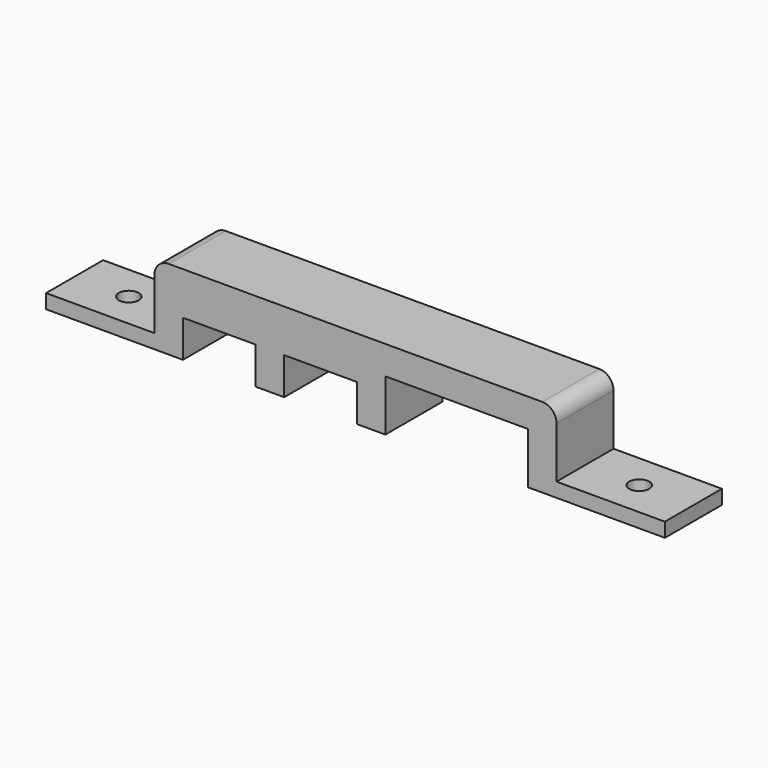
from build123d import *

# Parameters (mm, degrees)
F1_DEPTH = 6.35
F2_R     = 0.889
F3_DEPTH = 1.27


with BuildPart() as f1:
    # F0 (on Front) → F1 (new body)
    with BuildSketch(Plane.XZ):
        with BuildLine():
            Line((15.279732, 4.572), (15.279732, 0))
            Line((15.279732, 0), (17.819732, 0))
            Line((17.819732, 0), (27.471732, 0))
            Line((27.471732, 0), (27.471732, 1.27))
            Line((27.471732, 1.27), (17.819732, 1.27))
            Line((17.819732, 1.27), (17.819732, 5.842))
            ThreePointArc((17.819732, 5.842), (17.447758, 6.740026), (16.549732, 7.112))
            Line((16.549732, 7.112), (-16.724268, 7.112))
            ThreePointArc((-16.724268, 7.112), (-17.622294, 6.740026), (-17.994268, 5.842))
            Line((-17.994268, 5.842), (-17.994268, 1.27))
            Line((-17.994268, 1.27), (-27.646268, 1.27))
            Line((-27.646268, 1.27), (-27.646268, 0))
            Line((-27.646268, 0), (-17.994268, 0))
            Line((-17.994268, 0), (-15.454268, 0))
            Line((-15.454268, 0), (-15.454268, 3.302))
            Line((-15.454268, 3.302), (-8.977268, 3.302))
            Line((-8.977268, 3.302), (-8.977268, 0))
            Line((-8.977268, 0), (-6.437268, 0))
            Line((-6.437268, 0), (-6.437268, 3.302))
            Line((-6.437268, 3.302), (0.039732, 3.302))
            Line((0.039732, 3.302), (0.039732, 0))
            Line((0.039732, 0), (2.579732, 0))
            Line((2.579732, 0), (2.579732, 4.572))
            Line((2.579732, 4.572), (15.279732, 4.572))
        make_face()
    extrude(amount=F1_DEPTH)

    # F2 (on face) → F3 (cut, through all)
    with BuildSketch(Plane.XY.offset(1.27)):
        with Locations((-22.820268, -3.175)):
            Circle(F2_R)
        with Locations((22.645732, -3.175)):
            Circle(F2_R)
    extrude(amount=-F3_DEPTH, mode=Mode.SUBTRACT)


solid = f1.part
